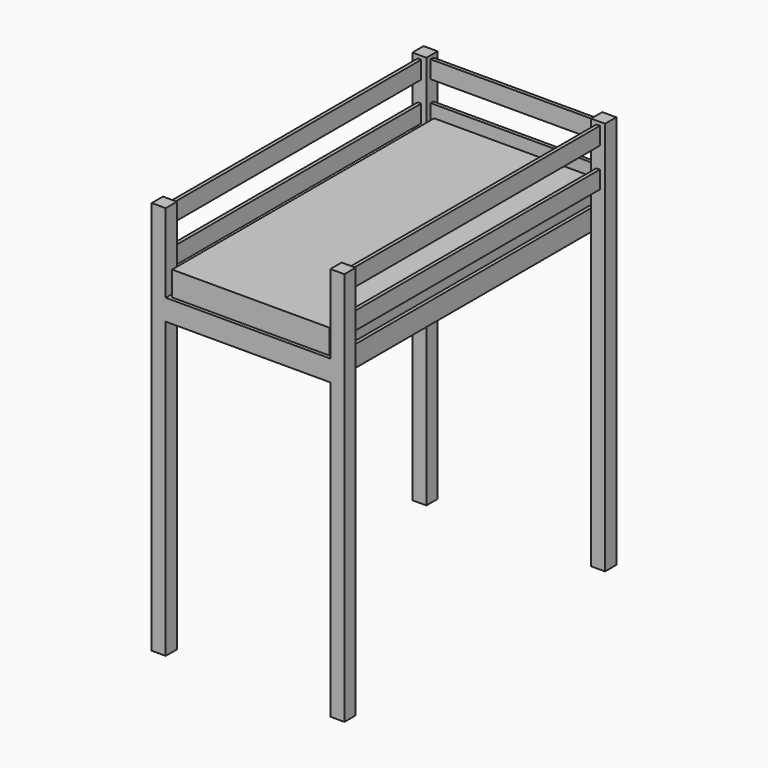
from build123d import *

# Parameters (mm, degrees)
F0_W      = 900
F0_H      = 1900
F1_DEPTH  = 140
F2_W      = 940
F2_H      = 1940
F3_DEPTH  = 120
F4_W      = 80
F4_H      = 80
F5_DEPTH  = 1800
F6_DEPTH  = 450
F8_W      = 1940
F8_H      = 100
F9_DEPTH  = 10
F12_W     = 1040
F12_H     = 100
F13_DEPTH = 10


with BuildPart() as f1:
    # F0 (on Top) → F1 (new body)
    with BuildSketch(Plane.XY):
        Rectangle(F0_W, F0_H)
    extrude(amount=F1_DEPTH)


with BuildPart() as f3:
    # F2 (on face) → F3 (new body)
    with BuildSketch(Plane(origin=(0, 0, 0), x_dir=(1, 0, 0), z_dir=(0, 0, -1))):
        Rectangle(F2_W, F2_H)
    extrude(amount=F3_DEPTH)

    # F4 (on face) → F5 (join)
    with BuildSketch(Plane.XY):
        with Locations((510, 930)):
            Rectangle(F4_W, F4_H)
        with Locations((510, -930)):
            Rectangle(F4_W, F4_H)
        with Locations((-510, 930)):
            Rectangle(F4_W, F4_H)
        with Locations((-510, -930)):
            Rectangle(F4_W, F4_H)
    extrude(amount=-F5_DEPTH)

    # F4 (on face) → F6 (join)
    with BuildSketch(Plane.XY):
        with Locations((510, 930)):
            Rectangle(F4_W, F4_H)
        with Locations((510, -930)):
            Rectangle(F4_W, F4_H)
        with Locations((-510, 930)):
            Rectangle(F4_W, F4_H)
        with Locations((-510, -930)):
            Rectangle(F4_W, F4_H)
    extrude(amount=F6_DEPTH)

    # F10: F9b, F9 across plane


with BuildPart() as f9:
    # F8 (on mid) → F9 (new body, symmetric)
    with BuildSketch(Plane.YZ.offset(510)):
        with Locations((0, 380)):
            Rectangle(F8_W, F8_H)
    extrude(amount=F9_DEPTH, both=True)


with BuildPart() as f9b:
    # F8 (on mid) → F9, piece 2 (new body, symmetric)
    with BuildSketch(Plane.YZ.offset(510)):
        with Locations((0, 160)):
            Rectangle(F8_W, F8_H)
    extrude(amount=F9_DEPTH, both=True)


with BuildPart() as f3_1:
    add(f3.part)
    add(f9b.part.mirror(Plane.YZ))
    add(f9.part.mirror(Plane.YZ))


    add(f9.part)  # F13 merges F9

    add(f9b.part)  # F13 merges F9b
    # F12 (on mid) → F13 (join, symmetric)
    with BuildSketch(Plane(origin=(0, 930, 0), x_dir=(-1, 0, 0), z_dir=(0, 1, 0))):
        with Locations((0, 380)):
            Rectangle(F12_W, F12_H)
        with Locations((0, 160)):
            Rectangle(F12_W, F12_H)
    extrude(amount=F13_DEPTH, both=True)


solid = Compound([f1.part, f3_1.part])
